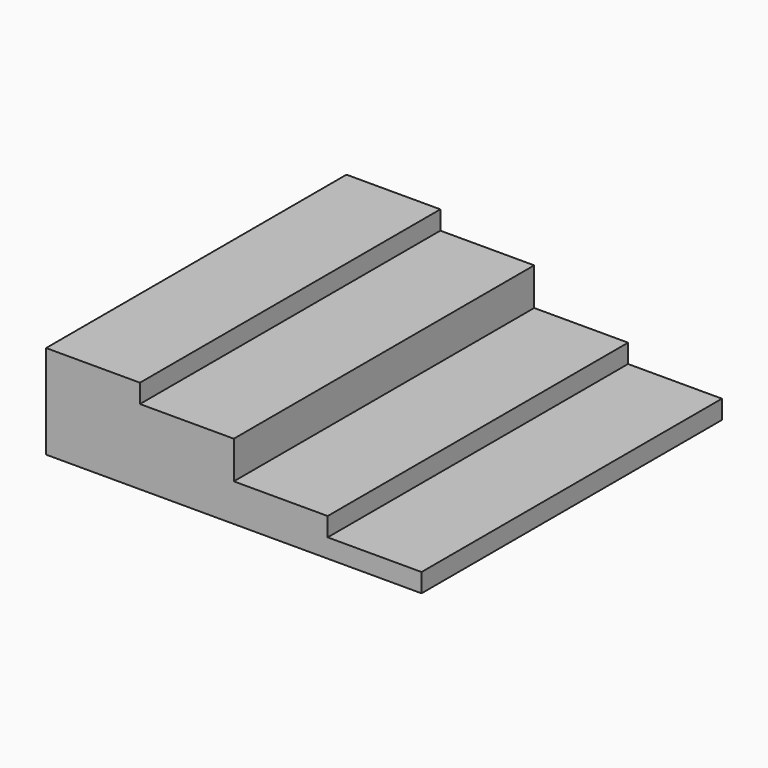
from build123d import *

# Parameters (mm, degrees)
F0_W     = 5
F0_H     = 20
F1_DEPTH = 5
F2_DEPTH = 4
F3_DEPTH = 2
F4_DEPTH = 1


with BuildPart() as f1:
    # F0 (on Top) → F1 (new body)
    with BuildSketch(Plane.XY):
        with Locations((2.5, 10)):
            Rectangle(F0_W, F0_H)
    extrude(amount=F1_DEPTH)

    # F0 (on Top) → F2 (join)
    with BuildSketch(Plane.XY):
        with Locations((7.5, 10)):
            Rectangle(F0_W, F0_H)
    extrude(amount=F2_DEPTH)

    # F0 (on Top) → F3 (join)
    with BuildSketch(Plane.XY):
        with Locations((12.5, 10)):
            Rectangle(F0_W, F0_H)
    extrude(amount=F3_DEPTH)

    # F0 (on Top) → F4 (join)
    with BuildSketch(Plane.XY):
        with Locations((17.5, 10)):
            Rectangle(F0_W, F0_H)
    extrude(amount=F4_DEPTH)


solid = f1.part
